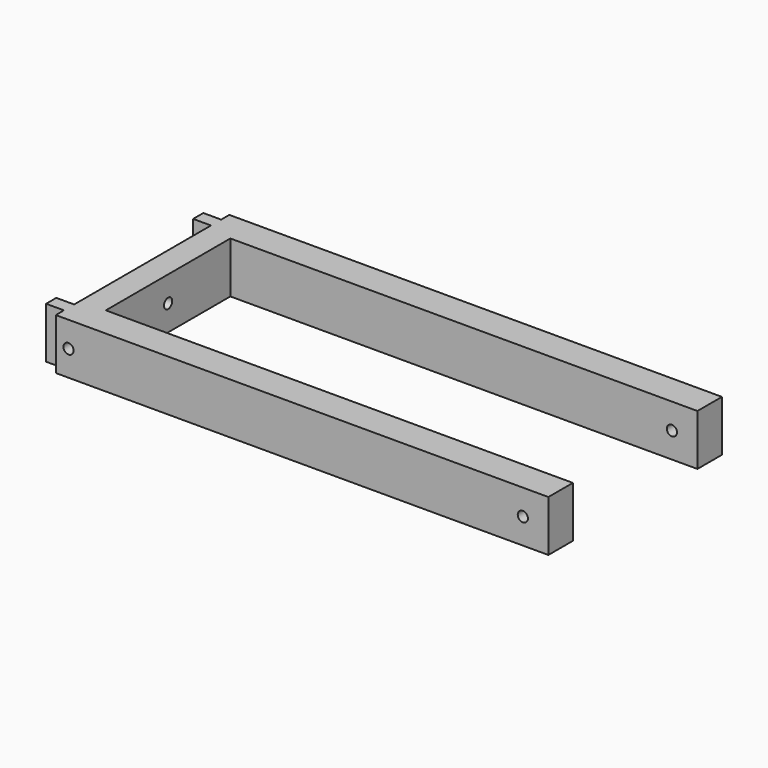
from build123d import *

# Parameters (mm, degrees)
PAD_DEPTH       = 20
SKETCH004_R     = 2
POCKET002_DEPTH = 193.001
SKETCH005_R     = 2
POCKET003_DEPTH = 85.001


with BuildPart() as part:
    # Sketch → Pad (new body)
    with BuildSketch(Plane.XY):
        Polygon((-10, -42.5), (183, -42.5), (183, -30.5), (0, -30.5), (0, 30.5), (183, 30.5), (183, 42.5), (-10, 42.5), (-10, 38.5), (-17, 38.5), (-17, 33.5), (-10, 33.5), (-10, -33.5), (-17, -33.5), (-17, -38.5), (-10, -38.5), align=None)
    extrude(amount=PAD_DEPTH)

    # Sketch004 → Pocket002 (cut, through all)
    with BuildSketch(Plane(origin=(-10, 0, 0), x_dir=(0, -1, 0), z_dir=(-1, 0, 0))):
        with Locations((0, 10)):
            Circle(SKETCH004_R)
    extrude(amount=-POCKET002_DEPTH, mode=Mode.SUBTRACT)

    # Sketch005 → Pocket003 (cut, through all)
    with BuildSketch(Plane.XZ.offset(42.5)):
        with Locations((-5, 10)):
            Circle(SKETCH005_R)
        with Locations((173, 10)):
            Circle(SKETCH005_R)
    extrude(amount=-POCKET003_DEPTH, mode=Mode.SUBTRACT)


solid = part.part
